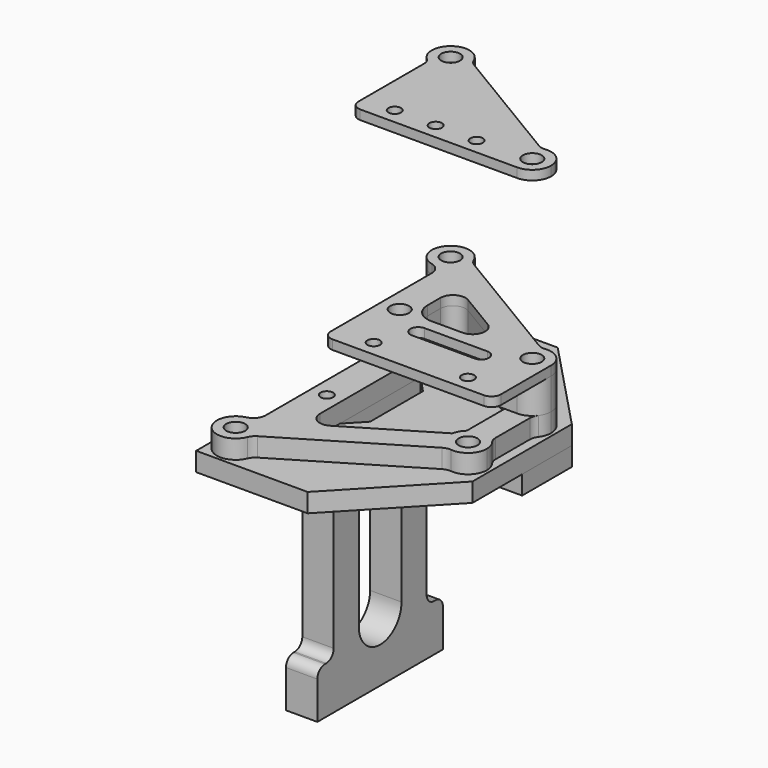
from build123d import *

# Parameters (mm, degrees)
F0_R      = 1.5
F1_DEPTH  = 3
F2_DEPTH  = 3
F3_R      = 1.5
F4_DEPTH  = 3
F5_R      = 2
F6_R      = 1.5
F7_DEPTH  = 5
F8_R      = 3
F9_R      = 1
F10_DEPTH = 3
F11_R     = 1.5
F12_DEPTH = 5
F13_R     = 1
F14_DEPTH = 2.5
F15_W     = 5
F15_H     = 25
F15_R     = 1
F16_DEPTH = 40
F18_DEPTH = 5
F19_R     = 1.5
F20_R     = 1
F20_R_2   = 1.5
F21_DEPTH = 1.5
F24_R     = 1.5
F25_DEPTH = 5
F26_R     = 1
F27_DEPTH = 5
F28_DEPTH = 3.5


with BuildPart() as f1:
    # F0 (on Top) → F1 (new body)
    with BuildSketch(Plane.XY):
        Polygon((-3.5, 17.89245), (8.5, 5.2624852941), (8.5, 0), (28.5, 0), (28.5, 9.89245), (14.2481787011, 24.89245), (-3.5, 24.89245), align=None)
        with Locations((0, 21.39245)):
            Circle(F0_R, mode=Mode.SUBTRACT)
        with Locations((25, 6.39245)):
            Circle(F0_R, mode=Mode.SUBTRACT)
        Polygon((28.5, 0), (8.5, 0), (8.5, -5.2624852941), (-3.5, -17.89245), (-3.5, -24.89245), (14.2481787011, -24.89245), (28.5, -9.89245), align=None)
        with Locations((0, -21.39245)):
            Circle(F0_R, mode=Mode.SUBTRACT)
        with Locations((25, -6.39245)):
            Circle(F0_R, mode=Mode.SUBTRACT)
    extrude(amount=F1_DEPTH)


with BuildPart() as f2:
    # F0 (on Top) → F2 (new body)
    with BuildSketch(Plane.XY):
        Polygon((-3.5, 17.89245), (8.5, 5.2624852941), (8.5, 0), (28.5, 0), (28.5, 9.89245), (14.2481787011, 24.89245), (-3.5, 24.89245), align=None)
        with Locations((0, 21.39245)):
            Circle(F0_R, mode=Mode.SUBTRACT)
        with Locations((25, 6.39245)):
            Circle(F0_R, mode=Mode.SUBTRACT)
    extrude(amount=-F2_DEPTH)


with BuildPart() as f4:
    # F3 (on face) → F4 (new body)
    with BuildSketch(Plane.XY.offset(3)):
        with BuildLine():
            ThreePointArc((0.8884209613, 18.5270166653), (2.415084148, 19.6127397545), (3, 21.39245))
            ThreePointArc((3, 21.39245), (2.9865709391, 21.6759884022), (2.946403983, 21.9569883682))
            ThreePointArc((2.946403983, 21.9569883682), (-2.5724787771, 22.9359372663), (0.8884209613, 18.5270166653))
        make_face()
        with Locations((0, 21.39245)):
            Circle(F3_R, mode=Mode.SUBTRACT)
        with BuildLine():
            ThreePointArc((3, -21.39245), (2.415084148, -19.6127397545), (0.8884209613, -18.5270166653))
            ThreePointArc((0.8884209613, -18.5270166653), (-2.5724787771, -22.9359372663), (2.946403983, -21.9569883682))
            ThreePointArc((2.946403983, -21.9569883682), (2.9865709391, -21.6759884022), (3, -21.39245))
        make_face()
        with Locations((0, -21.39245)):
            Circle(F3_R, mode=Mode.SUBTRACT)
        with BuildLine():
            Line((27, -4.1563820225), (27, 4.1563820225))
            ThreePointArc((27, 4.1563820225), (25, 3.39245), (23, 4.1563820225))
            Line((23, 4.1563820225), (23, -4.1563820225))
            ThreePointArc((23, -4.1563820225), (25, -3.39245), (27, -4.1563820225))
        make_face()
        with BuildLine():
            ThreePointArc((28, 6.39245), (26.7797102455, 8.807534148), (24.1115790387, 9.2578833347))
            ThreePointArc((24.1115790387, 9.2578833347), (22.4275212229, 7.9359372663), (22.053596017, 5.8279116318))
            ThreePointArc((22.053596017, 5.8279116318), (22.3894002797, 4.914353555), (23, 4.1563820225))
            ThreePointArc((23, 4.1563820225), (25, 3.39245), (27, 4.1563820225))
            ThreePointArc((27, 4.1563820225), (27.7386127875, 5.1677051286), (28, 6.39245))
        make_face()
        with Locations((25, 6.39245)):
            Circle(F3_R, mode=Mode.SUBTRACT)
        with BuildLine():
            ThreePointArc((2.946403983, 21.9569883682), (2.9865709391, 21.6759884022), (3, 21.39245))
            ThreePointArc((3, 21.39245), (2.415084148, 19.6127397545), (0.8884209613, 18.5270166653))
            Line((0.8884209613, 18.5270166653), (5.8884209613, 15.5270166653))
            Line((5.8884209613, 15.5270166653), (22.053596017, 5.8279116318))
            ThreePointArc((22.053596017, 5.8279116318), (22.4275212229, 7.9359372663), (24.1115790387, 9.2578833347))
            Line((24.1115790387, 9.2578833347), (2.946403983, 21.9569883682))
        make_face()
        with BuildLine():
            ThreePointArc((28, -6.39245), (27.7386127875, -5.1677051286), (27, -4.1563820225))
            ThreePointArc((27, -4.1563820225), (25, -3.39245), (23, -4.1563820225))
            ThreePointArc((23, -4.1563820225), (22.3894002797, -4.914353555), (22.053596017, -5.8279116318))
            ThreePointArc((22.053596017, -5.8279116318), (22.4275212229, -7.9359372663), (24.1115790387, -9.2578833347))
            ThreePointArc((24.1115790387, -9.2578833347), (26.7797102455, -8.807534148), (28, -6.39245))
        make_face()
        with Locations((25, -6.39245)):
            Circle(F3_R, mode=Mode.SUBTRACT)
        with BuildLine():
            Line((5.8884209613, -15.5270166653), (0.8884209613, -18.5270166653))
            ThreePointArc((0.8884209613, -18.5270166653), (2.415084148, -19.6127397545), (3, -21.39245))
            ThreePointArc((3, -21.39245), (2.9865709391, -21.6759884022), (2.946403983, -21.9569883682))
            Line((2.946403983, -21.9569883682), (24.1115790387, -9.2578833347))
            ThreePointArc((24.1115790387, -9.2578833347), (22.4275212229, -7.9359372663), (22.053596017, -5.8279116318))
            Line((22.053596017, -5.8279116318), (5.8884209613, -15.5270166653))
        make_face()
        Polygon((5.8884209613, 15.5270166653), (0.8884209613, 18.5270166653), (0.8884209613, 13.2736498454), (5.8884209613, 8.0111645513), align=None)
        Polygon((5.8884209613, -8.0111645513), (0.8884209613, -13.2736498454), (0.8884209613, -18.5270166653), (5.8884209613, -15.5270166653), align=None)
        Polygon((5.8884209613, 8.0111645513), (0.8884209613, 13.2736498454), (0.8884209613, -13.2736498454), (5.8884209613, -8.0111645513), align=None)
    extrude(amount=F4_DEPTH)

    # F5
    f5_edges = [f4.edges().sort_by_distance(p)[0] for p in [
        (0.888421, 18.527017, 4.5),
        (0.888421, -18.527017, 4.5),
        (2.946404, -21.956988, 4.5),
        (24.111579, -9.257883, 4.5),
        (27, 4.156382, 4.5),
        (27, -4.156382, 4.5),
        (24.111579, 9.257883, 4.5),
        (5.888421, -15.527017, 4.5),
        (5.888421, 15.527017, 4.5),
        (2.946404, 21.956988, 4.5),
    ]]
    fillet(f5_edges, radius=F5_R)

    # F9 (on face) → F10 (cut, through all)
    with BuildSketch(Plane.XY.offset(6)):
        with Locations((3.3884209613, 7.5)):
            Circle(F9_R)
        with Locations((3.3884209613, -7.5)):
            Circle(F9_R)
    extrude(amount=-F10_DEPTH, mode=Mode.SUBTRACT)


with BuildPart() as f7:
    # F6 (on face) → F7 (new body)
    with BuildSketch(Plane.XY.offset(6)):
        with BuildLine():
            ThreePointArc((0.8884209613, 18.5270166653), (2.415084148, 19.6127397545), (3, 21.39245))
            ThreePointArc((3, 21.39245), (2.9865709391, 21.6759884022), (2.946403983, 21.9569883682))
            ThreePointArc((2.946403983, 21.9569883682), (2.8763632372, 22.2448199475), (2.7782770793, 22.5243406619))
            ThreePointArc((2.7782770793, 22.5243406619), (-2.2866711137, 23.3343910953), (-0.6669474232, 18.4675258754))
            ThreePointArc((-0.6669474232, 18.4675258754), (0.1146622018, 18.3946420376), (0.8884209613, 18.5270166653))
        make_face()
        with Locations((0, 21.39245)):
            Circle(F6_R, mode=Mode.SUBTRACT)
        with BuildLine():
            ThreePointArc((2.946403983, 21.9569883682), (2.9865709391, 21.6759884022), (3, 21.39245))
            ThreePointArc((3, 21.39245), (2.415084148, 19.6127397545), (0.8884209613, 18.5270166653))
            Line((0.8884209613, 18.5270166653), (5.8884209613, 15.5270166653))
            Line((5.8884209613, 15.5270166653), (8.9174124721, 13.7096217588))
            Line((8.9174124721, 13.7096217588), (14.9210556511, 10.1074358514))
            ThreePointArc((14.9210556511, 10.1074358514), (15.8194939966, 7.8585828362), (13.8920641402, 6.39245))
            Line((13.8920641402, 6.39245), (5.8884209613, 6.39245))
            Line((5.8884209613, 6.39245), (5.8884209613, 3.39245))
            Line((5.8884209613, 3.39245), (25, 3.39245))
            ThreePointArc((25, 3.39245), (22.0338324386, 5.943172805), (24.1115790387, 9.2578833347))
            Line((24.1115790387, 9.2578833347), (23.4565127337, 9.6509231177))
            Line((23.4565127337, 9.6509231177), (3.601470288, 21.5639485851))
            Line((3.601470288, 21.5639485851), (2.946403983, 21.9569883682))
        make_face()
        with BuildLine():
            ThreePointArc((2.7782770793, 22.5243406619), (2.8763632372, 22.2448199475), (2.946403983, 21.9569883682))
            Line((2.946403983, 21.9569883682), (3.601470288, 21.5639485851))
            ThreePointArc((3.601470288, 21.5639485851), (3.1119485941, 21.9773516897), (2.7782770793, 22.5243406619))
        make_face()
        with BuildLine():
            Line((0.8884209613, 16.517576459), (0.8884209613, 18.5270166653))
            ThreePointArc((0.8884209613, 18.5270166653), (0.1146622018, 18.3946420376), (-0.6669474232, 18.4675258754))
            ThreePointArc((-0.6669474232, 18.4675258754), (0.4519527376, 17.7647205503), (0.8884209613, 16.517576459))
        make_face()
        Polygon((5.8884209613, 15.5270166653), (0.8884209613, 18.5270166653), (0.8884209613, 16.517576459), (0.8884209613, 3.39245), (5.8884209613, 3.39245), (5.8884209613, 6.39245), (5.8884209613, 11.9946359074), align=None)
        with BuildLine():
            ThreePointArc((24.6913025467, 9.3765253815), (24.0516433289, 9.4135348488), (23.4565127337, 9.6509231177))
            Line((23.4565127337, 9.6509231177), (24.1115790387, 9.2578833347))
            ThreePointArc((24.1115790387, 9.2578833347), (24.3985084303, 9.3315328317), (24.6913025467, 9.3765253815))
        make_face()
        with BuildLine():
            ThreePointArc((24.6913025467, 9.3765253815), (24.3985084303, 9.3315328317), (24.1115790387, 9.2578833347))
            ThreePointArc((24.1115790387, 9.2578833347), (22.0338324386, 5.943172805), (25, 3.39245))
            ThreePointArc((25, 3.39245), (27.1213203436, 4.2711296564), (28, 6.39245))
            ThreePointArc((28, 6.39245), (27.0092172158, 8.6202395277), (24.6913025467, 9.3765253815))
        make_face()
        with Locations((25, 6.39245)):
            Circle(F6_R, mode=Mode.SUBTRACT)
        with BuildLine():
            Line((8.9174124721, 13.7096217588), (5.8884209613, 15.5270166653))
            Line((5.8884209613, 15.5270166653), (5.8884209613, 11.9946359074))
            ThreePointArc((5.8884209613, 11.9946359074), (6.9030233313, 13.7350357209), (8.9174124721, 13.7096217588))
        make_face()
    extrude(amount=F7_DEPTH)

    # F8
    f8_edges = [f7.edges().sort_by_distance(p)[0] for p in [
        (5.888421, 6.39245, 8.5),
        (0.888421, 3.39245, 8.5),
    ]]
    fillet(f8_edges, radius=F8_R)

    # F11 (on face) → F12 (cut, through all)
    with BuildSketch(Plane.XY.offset(11)):
        with Locations((3.8884209613, 6.39245)):
            Circle(F11_R)
    extrude(amount=-F12_DEPTH, mode=Mode.SUBTRACT)

    # F13 (on face) → F14 (cut)
    with BuildSketch(Plane.XZ.offset(-3.39245)):
        with Locations((6.9442104806, 8.5)):
            Circle(F13_R)
        with Locations((14.4442104806, 8.5)):
            Circle(F13_R)
        with Locations((21.9442104806, 8.5)):
            Circle(F13_R)
    extrude(amount=-F14_DEPTH, mode=Mode.SUBTRACT)


with BuildPart() as f16:
    # F15 (on face) → F16 (new body)
    with BuildSketch(Plane(origin=(0, 0, 3), x_dir=(1, 0, 0), z_dir=(0, 0, -1))):
        with Locations((3.3884209613, 0)):
            Rectangle(F15_W, F15_H)
        with Locations((3.3884209613, -7.5)):
            Circle(F15_R, mode=Mode.SUBTRACT)
        with Locations((3.3884209613, 7.5)):
            Circle(F15_R, mode=Mode.SUBTRACT)
    extrude(amount=F16_DEPTH)

    # F17 (on face) → F18 (cut, through all)
    with BuildSketch(Plane(origin=(0.8884209613, 0, 0), x_dir=(0, -1, 0), z_dir=(-1, 0, 0))):
        with BuildLine():
            Line((4.25, -27), (4.25, -7))
            ThreePointArc((4.25, -7), (0, -2.75), (-4.25, -7))
            Line((-4.25, -7), (-4.25, -27))
            ThreePointArc((-4.25, -27), (0, -31.25), (4.25, -27))
        make_face()
        with BuildLine():
            Line((12.5, -29.5), (12.5, -4.5))
            Line((12.5, -4.5), (10.75, -4.5))
            ThreePointArc((10.75, -4.5), (9.6893398282, -4.9393398282), (9.25, -6))
            Line((9.25, -6), (9.25, -28))
            ThreePointArc((9.25, -28), (9.6893398282, -29.0606601718), (10.75, -29.5))
            Line((10.75, -29.5), (12.5, -29.5))
        make_face()
        with BuildLine():
            Line((-12.5, -4.5), (-12.5, -29.5))
            Line((-12.5, -29.5), (-10.75, -29.5))
            ThreePointArc((-10.75, -29.5), (-9.6893398282, -29.0606601718), (-9.25, -28))
            Line((-9.25, -28), (-9.25, -6))
            ThreePointArc((-9.25, -6), (-9.6893398282, -4.9393398282), (-10.75, -4.5))
            Line((-10.75, -4.5), (-12.5, -4.5))
        make_face()
    extrude(amount=-F18_DEPTH, mode=Mode.SUBTRACT)

    # F19
    f19_edges = [f16.edges().sort_by_distance(p)[0] for p in [
        (3.388421, -12.5, -4.5),
        (3.388421, 12.5, -4.5),
        (3.388421, -12.5, -29.5),
        (3.388421, 12.5, -29.5),
    ]]
    fillet(f19_edges, radius=F19_R)


with BuildPart() as f21:
    # F20 (on face) → F21 (new body)
    with BuildSketch(Plane.XY.offset(11)):
        with BuildLine():
            ThreePointArc((-0.6669474232, 18.4675258754), (0.4519527376, 17.7647205503), (0.8884209613, 16.517576459))
            Line((0.8884209613, 16.517576459), (0.8884209613, 6.39245))
            Line((0.8884209613, 6.39245), (0.8884209613, -3.60755))
            ThreePointArc((0.8884209613, -3.60755), (1.3277607895, -4.6682101718), (2.3884209613, -5.10755))
            Line((2.3884209613, -5.10755), (26.5, -5.10755))
            ThreePointArc((26.5, -5.10755), (27.5606601718, -4.6682101718), (28, -3.60755))
            Line((28, -3.60755), (28, 6.39245))
            ThreePointArc((28, 6.39245), (27.0092172158, 8.6202395277), (24.6913025467, 9.3765253815))
            ThreePointArc((24.6913025467, 9.3765253815), (24.0516433289, 9.4135348488), (23.4565127337, 9.6509231177))
            Line((23.4565127337, 9.6509231177), (3.601470288, 21.5639485851))
            ThreePointArc((3.601470288, 21.5639485851), (3.1119485941, 21.9773516897), (2.7782770793, 22.5243406619))
            ThreePointArc((2.7782770793, 22.5243406619), (-2.2866711137, 23.3343910953), (-0.6669474232, 18.4675258754))
        make_face()
        with Locations((6.9442104806, -2.60755)):
            Circle(F20_R, mode=Mode.SUBTRACT)
        with Locations((3.8884209613, 6.39245)):
            Circle(F20_R_2, mode=Mode.SUBTRACT)
        with Locations((21.9442104806, -2.60755)):
            Circle(F20_R, mode=Mode.SUBTRACT)
        with BuildLine():
            Line((9.4442104806, 4.39245), (14.4442104806, 4.39245))
            Line((14.4442104806, 4.39245), (19.4442104806, 4.39245))
            ThreePointArc((19.4442104806, 4.39245), (20.3280939571, 4.0263334765), (20.6942104806, 3.14245))
            ThreePointArc((20.6942104806, 3.14245), (20.3280939571, 2.2585665235), (19.4442104806, 1.89245))
            Line((19.4442104806, 1.89245), (14.4442104806, 1.89245))
            Line((14.4442104806, 1.89245), (9.4442104806, 1.89245))
            ThreePointArc((9.4442104806, 1.89245), (8.1942104806, 3.14245), (9.4442104806, 4.39245))
        make_face(mode=Mode.SUBTRACT)
        with Locations((25, 6.39245)):
            Circle(F20_R_2, mode=Mode.SUBTRACT)
        with BuildLine():
            Line((5.8884209613, 9.39245), (5.8884209613, 11.9946359074))
            ThreePointArc((5.8884209613, 11.9946359074), (6.9030233313, 13.7350357209), (8.9174124721, 13.7096217588))
            Line((8.9174124721, 13.7096217588), (14.9210556511, 10.1074358514))
            ThreePointArc((14.9210556511, 10.1074358514), (15.8194939966, 7.8585828362), (13.8920641402, 6.39245))
            Line((13.8920641402, 6.39245), (8.8884209613, 6.39245))
            ThreePointArc((8.8884209613, 6.39245), (6.7671006177, 7.2711296564), (5.8884209613, 9.39245))
        make_face(mode=Mode.SUBTRACT)
        with Locations((0, 21.39245)):
            Circle(F20_R_2, mode=Mode.SUBTRACT)
    extrude(amount=F21_DEPTH)


with BuildPart() as f23_1:
    # F23: instance of F7
    add(f7.part.mirror(Plane.XY.offset(25)))

    # F24 (on face) → F25 (join, through all)
    with BuildSketch(Plane.XY.offset(44)):
        with Locations((3.8884209613, 6.39245)):
            Circle(F24_R)
        with BuildLine():
            ThreePointArc((8.9174124721, 13.7096217588), (6.9030233313, 13.7350357209), (5.8884209613, 11.9946359074))
            Line((5.8884209613, 11.9946359074), (5.8884209613, 9.39245))
            ThreePointArc((5.8884209613, 9.39245), (6.7671006177, 7.2711296564), (8.8884209613, 6.39245))
            Line((8.8884209613, 6.39245), (13.8920641402, 6.39245))
            ThreePointArc((13.8920641402, 6.39245), (15.8194939966, 7.8585828362), (14.9210556511, 10.1074358514))
            Line((14.9210556511, 10.1074358514), (8.9174124721, 13.7096217588))
        make_face()
        with BuildLine():
            ThreePointArc((3.8884209613, 3.39245), (1.7671006177, 4.2711296564), (0.8884209613, 6.39245))
            Line((0.8884209613, 6.39245), (0.8884209613, 4.39245))
            ThreePointArc((0.8884209613, 4.39245), (1.1813141801, 3.6853432188), (1.8884209613, 3.39245))
            Line((1.8884209613, 3.39245), (3.8884209613, 3.39245))
        make_face()
        with BuildLine():
            Line((0.8884209613, 4.39245), (0.8884209613, 6.39245))
            Line((0.8884209613, 6.39245), (0.8884209613, 16.517576459))
            ThreePointArc((0.8884209613, 16.517576459), (0.4519527376, 17.7647205503), (-0.6669474232, 18.4675258754))
            ThreePointArc((-0.6669474232, 18.4675258754), (-1.3772373933, 18.7272638597), (-2, 19.1563820225))
            ThreePointArc((-2, 19.1563820225), (-1.6306936062, 18.6507204694), (-1.5, 18.0383480338))
            Line((-1.5, 18.0383480338), (-1.5, 4.89245))
            ThreePointArc((-1.5, 4.89245), (-1.0606601718, 3.8317898282), (0, 3.39245))
            Line((0, 3.39245), (1.8884209613, 3.39245))
            ThreePointArc((1.8884209613, 3.39245), (1.1813141801, 3.6853432188), (0.8884209613, 4.39245))
        make_face()
    extrude(amount=-F25_DEPTH)

    # F26 (on face) → F27 (cut, through all)
    with BuildSketch(Plane.XY.offset(44)):
        with Locations((10.0179491924, 5.89245)):
            Circle(F26_R)
        with Locations((16.5358983849, 5.89245)):
            Circle(F26_R)
        with Locations((3.5, 5.89245)):
            Circle(F26_R)
    extrude(amount=-F27_DEPTH, mode=Mode.SUBTRACT)

    # F28 (cut): a face of the model
    f28_faces = [f23_1.faces().sort_by_distance(p)[0] for p in [
        (9.4234985933, 10.9394034778, 44),
    ]]
    extrude(f28_faces, amount=-F28_DEPTH, mode=Mode.SUBTRACT)


solid = Compound([f1.part, f2.part, f4.part, f7.part, f16.part, f21.part, f23_1.part])
